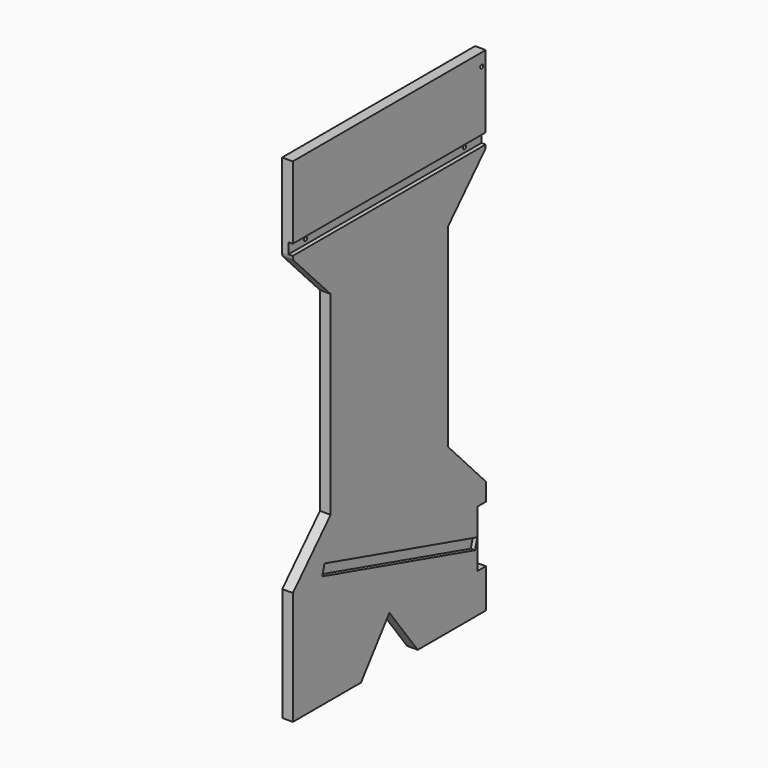
from build123d import *

# Parameters (mm, degrees)
F1_DEPTH = 19.05
F3_DEPTH = 7.62
F5_DEPTH = 7.62
F6_R     = 3.302
F7_DEPTH = 19.05
F8_R     = 5.08
F9_DEPTH = 16.002


with BuildPart() as f1:
    # F0 (on Right) → F1 (new body)
    with BuildSketch(Plane.YZ):
        with BuildLine():
            Line((215.571838, -73.145718), (215.571838, 77.657629))
            Line((215.571838, 77.657629), (-216.228162, 77.657629))
            Line((-216.228162, 77.657629), (-216.228162, -73.145718))
            ThreePointArc((-216.228162, -73.145718), (-215.497416, -76.929203), (-213.410296, -80.168443))
            Line((-213.410296, -80.168443), (-131.536695, -165.765835))
            Line((-131.536695, -165.765835), (-131.536695, -513.745835))
            Line((-131.536695, -513.745835), (-215.9, -602.645835))
            Line((-215.9, -602.645835), (-215.9, -805.845835))
            Line((-215.9, -805.845835), (-63.5, -805.845835))
            Line((-63.5, -805.845835), (0, -721.487939))
            Line((0, -721.487939), (63.5, -805.845835))
            Line((63.5, -805.845835), (215.9, -805.845835))
            Line((215.9, -805.845835), (215.9, -735.995835))
            Line((215.9, -735.995835), (196.85, -735.995835))
            Line((196.85, -735.995835), (196.85, -634.395835))
            Line((196.85, -634.395835), (215.9, -634.395835))
            Line((215.9, -634.395835), (215.9, -602.645835))
            Line((215.9, -602.645835), (131.536695, -513.745835))
            Line((131.536695, -513.745835), (131.536695, -165.765835))
            Line((131.536695, -165.765835), (212.782136, -80.138879))
            ThreePointArc((212.782136, -80.138879), (214.848676, -76.910248), (215.571838, -73.145718))
        make_face()
    extrude(amount=F1_DEPTH)

    # F2 (on face) → F3 (cut)
    with BuildSketch(Plane.YZ.offset(19.05)):
        Polygon((191.608355, -700.919833), (196.842454, -682.602991), (-145.071934, -584.899811), (-150.306033, -603.216653), align=None)
    extrude(amount=-F3_DEPTH, mode=Mode.SUBTRACT)

    # F4 (on face) → F5 (cut)
    with BuildSketch(Plane.YZ.offset(19.05)):
        Polygon((-216.228162, -71.276438), (216.173725, -71.276438), (215.571838, -52.226438), (-216.228162, -52.226438), align=None)
    extrude(amount=-F5_DEPTH, mode=Mode.SUBTRACT)

    # F6 (on face) → F7 (cut)
    with BuildSketch(Plane.YZ):
        with Locations((-178.128162, -62.640438)):
            Circle(F6_R)
        with Locations((177.471838, -62.640438)):
            Circle(F6_R)
        with Locations((206.427838, 55.305629)):
            Circle(F6_R)
    extrude(amount=F7_DEPTH, mode=Mode.SUBTRACT)

    # F8 (on face) → F9 (cut)
    with BuildSketch(Plane.YZ):
        with Locations((188.722, -723.295835)):
            Circle(F8_R)
        with Locations((188.722, -647.097349)):
            Circle(F8_R)
    extrude(amount=F9_DEPTH, mode=Mode.SUBTRACT)


solid = f1.part
